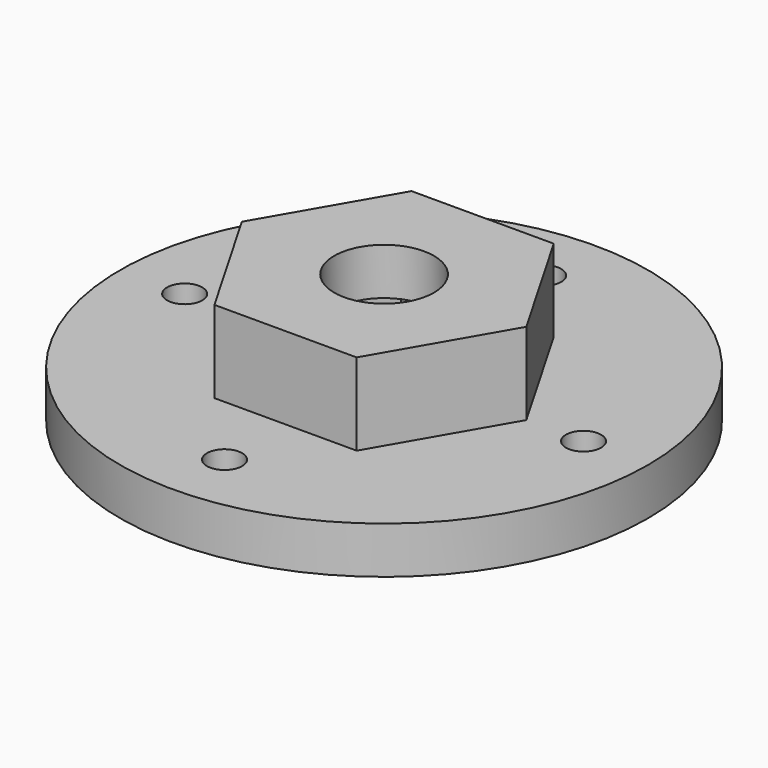
from build123d import *

# Parameters (mm, degrees)
F0_R     = 22.5
F0_R_2   = 1.5
F0_R_3   = 3.75
F1_DEPTH = 4
F0_R_4   = 4.25
F2_DEPTH = 11
F3_DEPTH = 25
F4_DEPTH = 7


with BuildPart() as f1:
    # F0 (on Top) → F1 (new body)
    with BuildSketch(Plane.XY):
        Circle(F0_R)
        with Locations((0, -17)):
            Circle(F0_R_2, mode=Mode.SUBTRACT)
        with Locations((-17, 0)):
            Circle(F0_R_3, mode=Mode.SUBTRACT)
        Polygon((6.062178, -10.5), (-6.062178, -10.5), (-12.124356, 0), (-6.062178, 10.5), (6.062178, 10.5), (12.124356, 0), align=None, mode=Mode.SUBTRACT)
        with Locations((17, 0)):
            Circle(F0_R_2, mode=Mode.SUBTRACT)
        with Locations((0, 17)):
            Circle(F0_R_2, mode=Mode.SUBTRACT)
        with Locations((-17, 0)):
            Circle(F0_R_3)
        with Locations((-17, 0)):
            Circle(F0_R_2, mode=Mode.SUBTRACT)
    extrude(amount=F1_DEPTH)

    # F0 (on Top) → F2 (join)
    with BuildSketch(Plane.XY):
        Polygon((-12.124356, 0), (-6.062178, -10.5), (6.062178, -10.5), (12.124356, 0), (6.062178, 10.5), (-6.062178, 10.5), align=None)
        Polygon((7.505553, 0), (3.752777, -6.5), (-3.752777, -6.5), (-7.505553, 0), (-3.752777, 6.5), (3.752777, 6.5), align=None, mode=Mode.SUBTRACT)
        Polygon((-3.752777, -6.5), (3.752777, -6.5), (7.505553, 0), (3.752777, 6.5), (-3.752777, 6.5), (-7.505553, 0), align=None)
        Circle(F0_R_4, mode=Mode.SUBTRACT)
        Circle(F0_R_4)
    extrude(amount=F2_DEPTH)

    # F0 (on Top) → F3 (cut)
    with BuildSketch(Plane.XY):
        Circle(F0_R_4)
    extrude(amount=F3_DEPTH, mode=Mode.SUBTRACT)

    # F0 (on Top) → F4 (cut)
    with BuildSketch(Plane.XY):
        Polygon((-3.752777, -6.5), (3.752777, -6.5), (7.505553, 0), (3.752777, 6.5), (-3.752777, 6.5), (-7.505553, 0), align=None)
        Circle(F0_R_4, mode=Mode.SUBTRACT)
    extrude(amount=F4_DEPTH, mode=Mode.SUBTRACT)


solid = f1.part
